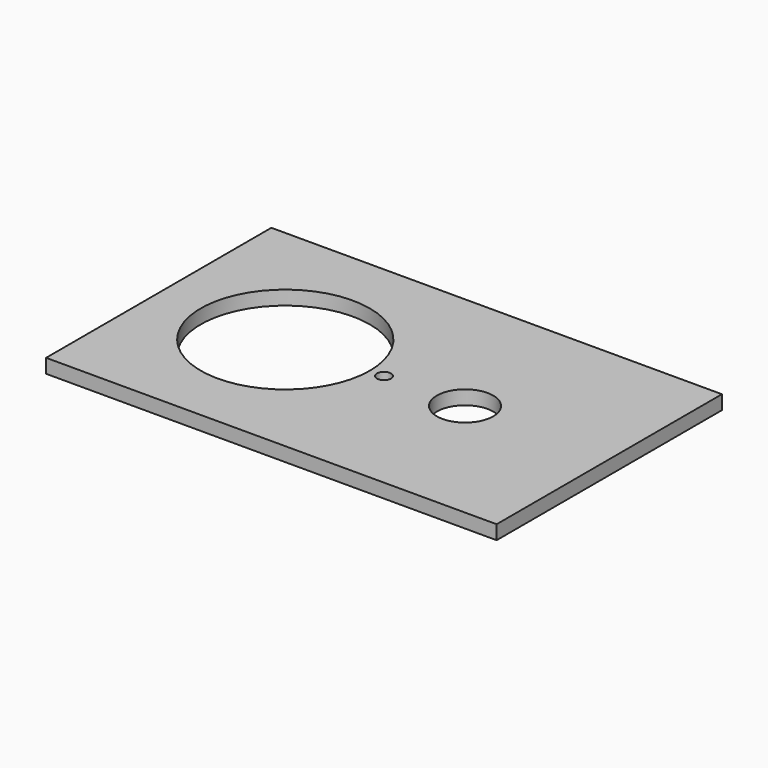
from build123d import *

# Parameters (mm, degrees)
F0_W     = 203.2
F0_H     = 127
F0_R     = 38.1
F0_R_2   = 3.175
F0_R_3   = 12.7
F1_DEPTH = 6.35


with BuildPart() as f1:
    # F0 (on Top) → F1 (new body)
    with BuildSketch(Plane.XY):
        Rectangle(F0_W, F0_H)
        with Locations((-44.526167, 0)):
            Circle(F0_R, mode=Mode.SUBTRACT)
        Circle(F0_R_2, mode=Mode.SUBTRACT)
        with Locations((36.559597, 0)):
            Circle(F0_R_3, mode=Mode.SUBTRACT)
        Rectangle(F0_W, F0_H)
        with Locations((-44.526167, 0)):
            Circle(F0_R, mode=Mode.SUBTRACT)
        Circle(F0_R_2, mode=Mode.SUBTRACT)
        with Locations((36.559597, 0)):
            Circle(F0_R_3, mode=Mode.SUBTRACT)
    extrude(amount=F1_DEPTH)


solid = f1.part
